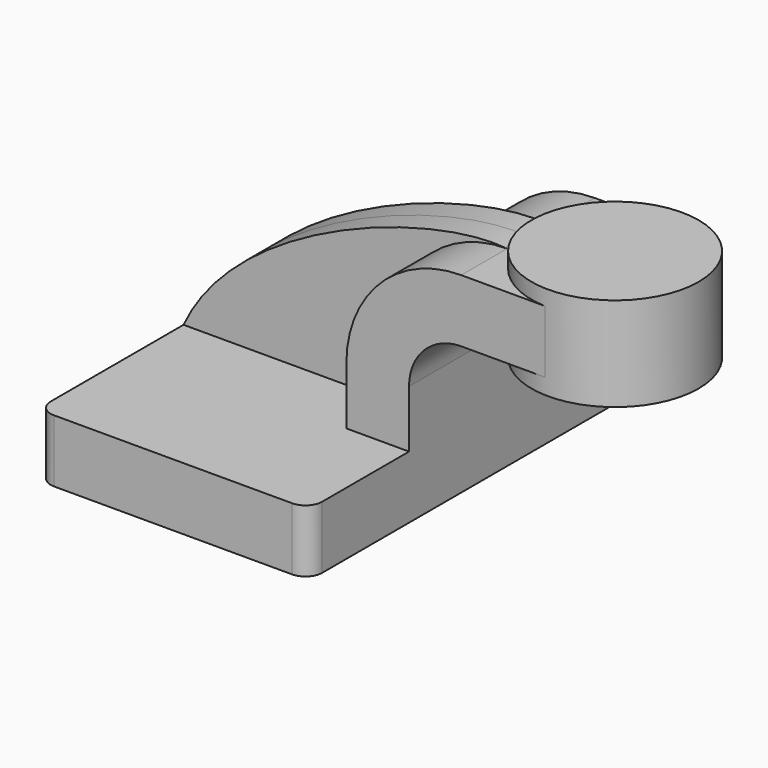
from build123d import *

# Parameters (mm, degrees)
F1_DEPTH = 63.5
F0_W     = 25.3785441501
F0_H     = 19.05
F2_DEPTH = 25.4
F3_DEPTH = 7.9375
F5_R     = 5.08


with BuildPart() as f1:
    # F0 (on Front) → F1 (new body, symmetric)
    with BuildSketch(Plane.XZ):
        Polygon((41.275, -9.525), (41.275, 9.525), (22.225, 9.525), (-41.275, 9.525), (-41.275, -9.525), align=None)
    extrude(amount=F1_DEPTH, both=True)

    # F0 (on Front) → F2 (join, symmetric)
    with BuildSketch(Plane.XZ):
        with Locations((70.927461476, 52.4002)):
            Rectangle(F0_W, F0_H)
        with BuildLine():
            Line((22.225, 9.525), (41.275, 9.525))
            Line((41.275, 9.525), (41.275, 27.0002))
            ThreePointArc((41.275, 27.0002), (45.9246798487, 38.2255201513), (57.15, 42.8752))
            Line((57.15, 42.8752), (58.2381894009, 42.8752))
            Line((58.2381894009, 42.8752), (58.2381894009, 61.9252))
            Line((58.2381894009, 61.9252), (57.15, 61.9252))
            ThreePointArc((57.15, 61.9252), (32.4542956671, 51.6959043329), (22.225, 27.0002))
            Line((22.225, 27.0002), (22.225, 9.525))
        make_face()
    extrude(amount=F2_DEPTH, both=True)

    # F0 (on Front) → F3 (join, symmetric)
    with BuildSketch(Plane.XZ):
        with BuildLine():
            Line((-41.275, 9.525), (22.225, 9.525))
            Line((22.225, 9.525), (22.225, 27.0002))
            ThreePointArc((22.225, 27.0002), (32.4542956671, 51.6959043329), (57.15, 61.9252))
            add(Edge.make_bspline(
                [(-41.275, 9.525), (-24.9403305352, 44.9881963432), (34.9694043398, 64.3845573068), (57.15, 61.9252)],
                knots=[0, 0, 0, 0, 111.5045361635, 111.5045361635, 111.5045361635, 111.5045361635], degree=3))
        make_face()
    extrude(amount=F3_DEPTH, both=True)

    # F0 (on Front) → F4 (revolve)
    with BuildSketch(Plane.XZ):
        Polygon((83.616733551, 61.9252), (83.616733551, 42.8752), (83.616733551, 38.1), (109.0381894009, 38.1), (109.0381894009, 66.675), (83.616733551, 66.675), align=None)
    revolve(axis=Axis((83.616733551, 0, 52.3875), (0, 0, -1)))

    # F5
    f5_edges = [f1.edges().sort_by_distance(p)[0] for p in [
        (-41.275, -63.5, 0),
        (-41.275, 63.5, 0),
        (41.275, 63.5, 0),
        (41.275, -63.5, 0),
    ]]
    fillet(f5_edges, radius=F5_R)


solid = f1.part
